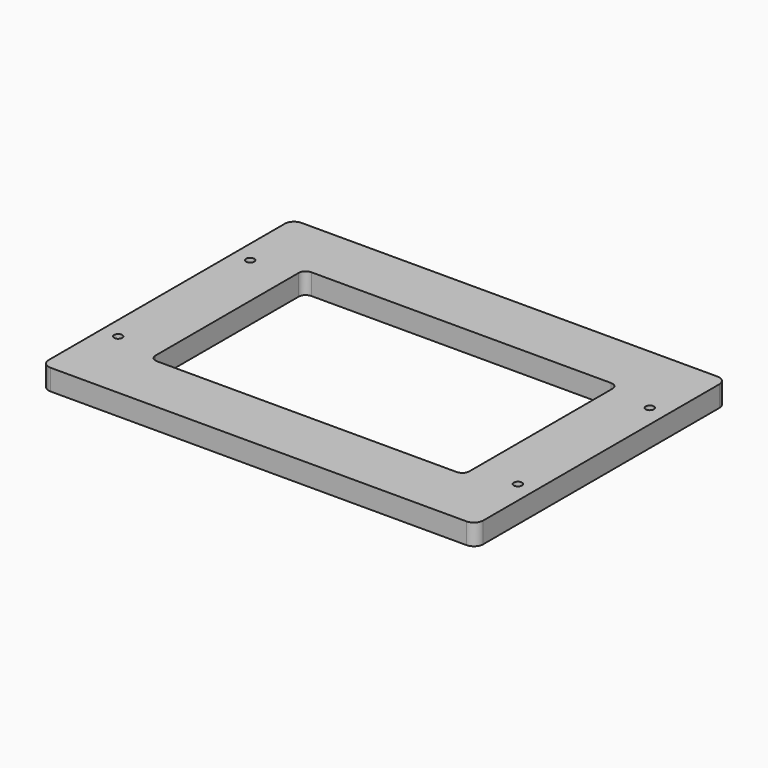
from build123d import *

# Parameters (mm, degrees)
SKETCH_W        = 187
SKETCH_H        = 135
PAD_DEPTH       = 9
SKETCH001_R     = 1.75
POCKET_DEPTH    = 9.001
FILLET_R        = 4
SKETCH002_W     = 135
SKETCH002_H     = 83
POCKET001_DEPTH = 9.001
FILLET001_R     = 3


with BuildPart() as part:
    # Sketch → Pad (new body)
    with BuildSketch(Plane.XY):
        Rectangle(SKETCH_W, SKETCH_H)
    extrude(amount=PAD_DEPTH)

    # Sketch001 (on Face6 of Pad) → Pocket (cut, through all)
    with BuildSketch(Plane.XY.offset(9)):
        with Locations((-86, 35.5)):
            Circle(SKETCH001_R)
        with Locations((86, 35.5)):
            Circle(SKETCH001_R)
        with Locations((-86, -35.5)):
            Circle(SKETCH001_R)
        with Locations((86, -35.5)):
            Circle(SKETCH001_R)
    extrude(amount=-POCKET_DEPTH, mode=Mode.SUBTRACT)

    # Fillet
    fillet_edges = [part.edges().sort_by_distance(p)[0] for p in [
        (-93.5, 67.5, 4.5),
        (-93.5, -67.5, 4.5),
        (93.5, -67.5, 4.5),
        (93.5, 67.5, 4.5),
    ]]
    fillet(fillet_edges, radius=FILLET_R)

    # Sketch002 (on Face5 of Fillet) → Pocket001 (cut, through all)
    with BuildSketch(Plane.XY.offset(9)):
        Rectangle(SKETCH002_W, SKETCH002_H)
    extrude(amount=-POCKET001_DEPTH, mode=Mode.SUBTRACT)

    # Fillet001
    fillet001_edges = [part.edges().sort_by_distance(p)[0] for p in [
        (-67.5, 41.5, 4.5),
        (-67.5, -41.5, 4.5),
        (67.5, -41.5, 4.5),
        (67.5, 41.5, 4.5),
    ]]
    fillet(fillet001_edges, radius=FILLET001_R)


solid = part.part
